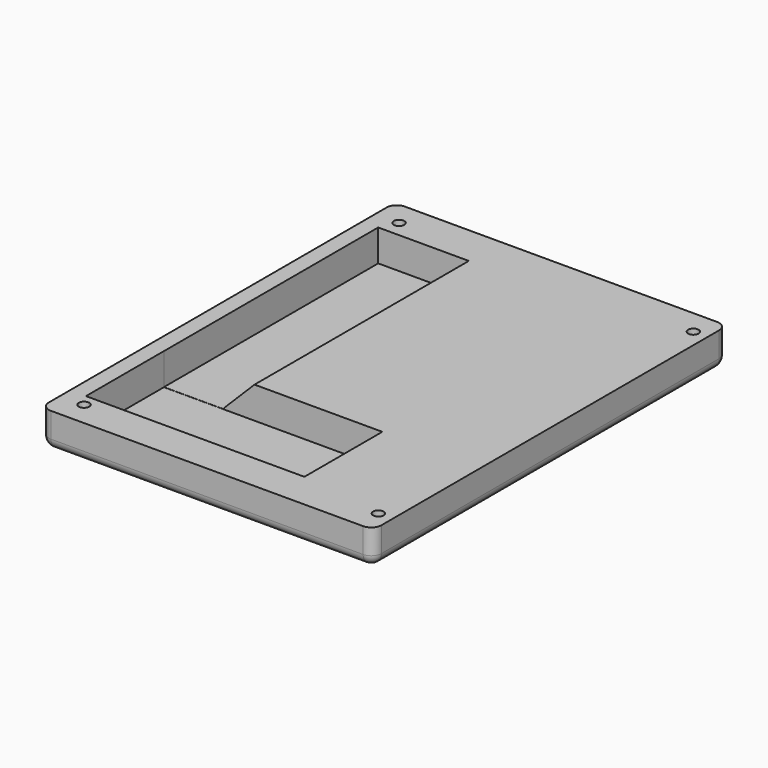
from build123d import *

# Parameters (mm, degrees)
SKETCH059_W     = 81.930373
SKETCH059_H     = 8.636624
PAD014_DEPTH    = 109
FILLET032_R     = 2.5
SKETCH060_W     = 53.822303
SKETCH060_H     = 19.035354
POCKET028_DEPTH = 24
SKETCH061_W     = 14.825619
SKETCH061_H     = 9.085716
POCKET029_DEPTH = 66
CHAMFER015_SIZE = 7.5
SKETCH062_R     = 1.3
POCKET030_DEPTH = 8.637624
CHAMFER016_SIZE = 1


with BuildPart() as part:
    # Sketch059 → Pad014 (new body)
    with BuildSketch(Plane.XZ.offset(-61)):
        with Locations((-3.438551, -16.819782)):
            Rectangle(SKETCH059_W, SKETCH059_H)
    extrude(amount=PAD014_DEPTH)

    # Fillet032
    fillet032_edges = [part.edges().sort_by_distance(p)[0] for p in [
        (-44.403737, 61, -16.819782),
        (37.526636, 61, -16.819782),
        (-3.43855, 61, -21.138094),
        (-44.403737, 6.5, -21.138094),
        (37.526636, 6.5, -21.138094),
        (37.526636, -48, -16.819782),
        (-3.43855, -48, -21.138094),
        (-44.403737, -48, -16.819782),
    ]]
    fillet(fillet032_edges, radius=FILLET032_R)

    # Sketch060 → Pocket028 (cut)
    with BuildSketch(Plane.XZ.offset(39)):
        with Locations((-13.565516, -10.812245)):
            Rectangle(SKETCH060_W, SKETCH060_H)
    extrude(amount=-POCKET028_DEPTH, mode=Mode.SUBTRACT)

    # Sketch061 → Pocket029 (cut)
    with BuildSketch(Plane.XZ.offset(15)):
        with Locations((-33.055162, -15.752031)):
            Rectangle(SKETCH061_W, SKETCH061_H)
    extrude(amount=-POCKET029_DEPTH, mode=Mode.SUBTRACT)

    # Chamfer015
    chamfer015_edges = [part.edges().sort_by_distance(p)[0] for p in [
        (-25.642353, 18, -12.50147),
    ]]
    chamfer(chamfer015_edges, length=CHAMFER015_SIZE)

    # Sketch062 (on Face28 of Chamfer015) → Pocket030 (cut, through all)
    with BuildSketch(Plane(origin=(0, 0, -21.138094), x_dir=(1, 0, 0), z_dir=(0, 0, -1))):
        with Locations((-38.519981, 42.037067)):
            Circle(SKETCH062_R)
        with Locations((34.008266, 42.037067)):
            Circle(SKETCH062_R)
        with Locations((34.008266, -54.977215)):
            Circle(SKETCH062_R)
        with Locations((-38.519981, -54.977215)):
            Circle(SKETCH062_R)
    extrude(amount=-POCKET030_DEPTH, mode=Mode.SUBTRACT)

    # Chamfer016
    chamfer016_edges = [part.edges().sort_by_distance(p)[0] for p in [
        (32.708266, -42.037067, -21.138094),
        (32.708266, 54.977215, -21.138094),
        (-39.819981, 54.977215, -21.138094),
        (-39.819981, -42.037067, -21.138094),
    ]]
    chamfer(chamfer016_edges, length=CHAMFER016_SIZE)


solid = part.part
